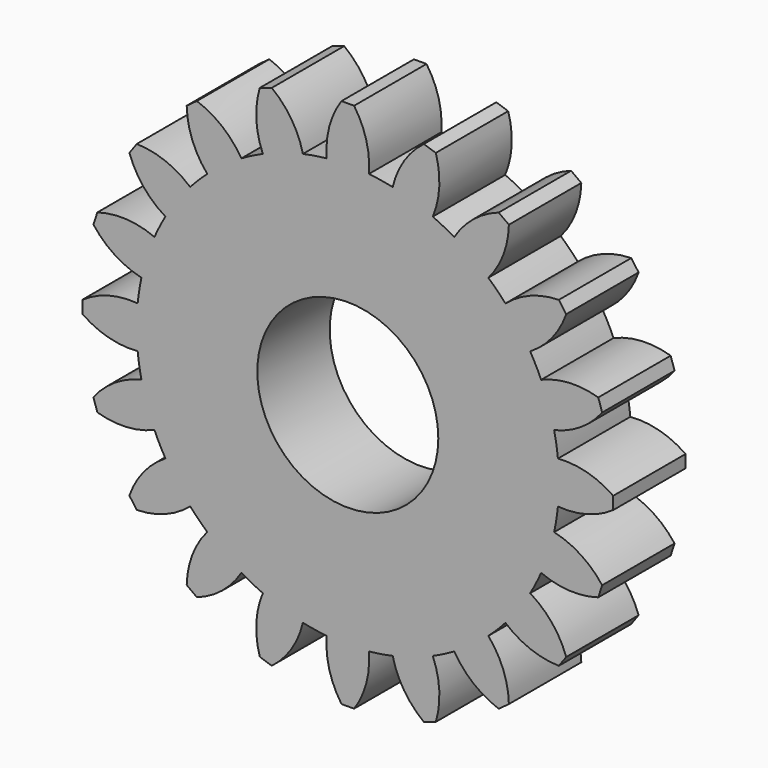
from build123d import *

# Parameters (mm, degrees)
F0_R     = 7.5
F1_DEPTH = 7.5


with BuildPart() as f1:
    # F0 (on Front) → F1 (new body)
    with BuildSketch(Plane.XZ):
        with BuildLine():
            ThreePointArc((-1.7455, 17.412732), (0, 17.5), (1.7455, 17.412732))
            ThreePointArc((1.7455, 17.412732), (1.533451, 19.81002), (0.522, 21.993806))
            Line((0.522, 21.993806), (-0.522, 21.993806))
            ThreePointArc((-0.522, 21.993806), (-1.533451, 19.81002), (-1.7455, 17.412732))
        make_face()
        with BuildLine():
            ThreePointArc((17.412732, -1.7455), (17.478169, -0.87384), (17.5, 0))
            ThreePointArc((17.5, 0), (17.478169, 0.87384), (17.412732, 1.7455))
            ThreePointArc((17.412732, 1.7455), (17.284546, 2.737603), (17.099881, 3.720761))
            ThreePointArc((17.099881, 3.720761), (16.643489, 5.407797), (16.021103, 7.040899))
            ThreePointArc((16.021103, 7.040899), (15.592614, 7.944834), (15.113175, 8.822808))
            ThreePointArc((15.113175, 8.822808), (14.157797, 10.286242), (13.061217, 11.647086))
            ThreePointArc((13.061217, 11.647086), (12.374369, 12.374369), (11.647086, 13.061217))
            ThreePointArc((11.647086, 13.061217), (10.286242, 14.157797), (8.822808, 15.113175))
            ThreePointArc((8.822808, 15.113175), (7.944834, 15.592614), (7.040899, 16.021103))
            ThreePointArc((7.040899, 16.021103), (5.407797, 16.643489), (3.720761, 17.099881))
            ThreePointArc((3.720761, 17.099881), (2.737603, 17.284546), (1.7455, 17.412732))
            ThreePointArc((1.7455, 17.412732), (0, 17.5), (-1.7455, 17.412732))
            ThreePointArc((-1.7455, 17.412732), (-2.737603, 17.284546), (-3.720761, 17.099881))
            ThreePointArc((-3.720761, 17.099881), (-5.407797, 16.643489), (-7.040899, 16.021103))
            ThreePointArc((-7.040899, 16.021103), (-7.944834, 15.592614), (-8.822808, 15.113175))
            ThreePointArc((-8.822808, 15.113175), (-10.286242, 14.157797), (-11.647086, 13.061217))
            ThreePointArc((-11.647086, 13.061217), (-12.374369, 12.374369), (-13.061217, 11.647086))
            ThreePointArc((-13.061217, 11.647086), (-14.157797, 10.286242), (-15.113175, 8.822808))
            ThreePointArc((-15.113175, 8.822808), (-15.592614, 7.944834), (-16.021103, 7.040899))
            ThreePointArc((-16.021103, 7.040899), (-16.643489, 5.407797), (-17.099881, 3.720761))
            ThreePointArc((-17.099881, 3.720761), (-17.284546, 2.737603), (-17.412732, 1.7455))
            ThreePointArc((-17.412732, 1.7455), (-17.5, 0), (-17.412732, -1.7455))
            ThreePointArc((-17.412732, -1.7455), (-17.284546, -2.737603), (-17.099881, -3.720761))
            ThreePointArc((-17.099881, -3.720761), (-16.643489, -5.407797), (-16.021103, -7.040899))
            ThreePointArc((-16.021103, -7.040899), (-15.592614, -7.944834), (-15.113175, -8.822808))
            ThreePointArc((-15.113175, -8.822808), (-14.157797, -10.286242), (-13.061217, -11.647086))
            ThreePointArc((-13.061217, -11.647086), (-12.374369, -12.374369), (-11.647086, -13.061217))
            ThreePointArc((-11.647086, -13.061217), (-10.286242, -14.157797), (-8.822808, -15.113175))
            ThreePointArc((-8.822808, -15.113175), (-7.944834, -15.592614), (-7.040899, -16.021103))
            ThreePointArc((-7.040899, -16.021103), (-5.407797, -16.643489), (-3.720761, -17.099881))
            ThreePointArc((-3.720761, -17.099881), (-2.737603, -17.284546), (-1.7455, -17.412732))
            ThreePointArc((-1.7455, -17.412732), (0, -17.5), (1.7455, -17.412732))
            ThreePointArc((1.7455, -17.412732), (2.737603, -17.284546), (3.720761, -17.099881))
            ThreePointArc((3.720761, -17.099881), (5.407797, -16.643489), (7.040899, -16.021103))
            ThreePointArc((7.040899, -16.021103), (7.944834, -15.592614), (8.822808, -15.113175))
            ThreePointArc((8.822808, -15.113175), (10.286242, -14.157797), (11.647086, -13.061217))
            ThreePointArc((11.647086, -13.061217), (12.374369, -12.374369), (13.061217, -11.647086))
            ThreePointArc((13.061217, -11.647086), (14.157797, -10.286242), (15.113175, -8.822808))
            ThreePointArc((15.113175, -8.822808), (15.592614, -7.944834), (16.021103, -7.040899))
            ThreePointArc((16.021103, -7.040899), (16.643489, -5.407797), (17.099881, -3.720761))
            ThreePointArc((17.099881, -3.720761), (17.284546, -2.737603), (17.412732, -1.7455))
        make_face()
        Circle(F0_R, mode=Mode.SUBTRACT)
        with BuildLine():
            ThreePointArc((-7.040899, 16.021103), (-5.407797, 16.643489), (-3.720761, 17.099881))
            ThreePointArc((-3.720761, 17.099881), (-4.663234, 19.314311), (-6.300008, 21.07866))
            Line((-6.300008, 21.07866), (-7.292911, 20.756046))
            ThreePointArc((-7.292911, 20.756046), (-7.580032, 18.366586), (-7.040899, 16.021103))
        make_face()
        with BuildLine():
            ThreePointArc((-11.647086, 13.061217), (-10.286242, 14.157797), (-8.822808, 15.113175))
            ThreePointArc((-8.822808, 15.113175), (-10.40345, 16.927983), (-12.505328, 18.100187))
            Line((-12.505328, 18.100187), (-13.349942, 17.486539))
            ThreePointArc((-13.349942, 17.486539), (-12.884626, 15.125303), (-11.647086, 13.061217))
        make_face()
        with BuildLine():
            ThreePointArc((-15.113175, 8.822808), (-14.157797, 10.286242), (-13.061217, 11.647086))
            ThreePointArc((-13.061217, 11.647086), (-15.125303, 12.884626), (-17.486539, 13.349942))
            Line((-17.486539, 13.349942), (-18.100187, 12.505328))
            ThreePointArc((-18.100187, 12.505328), (-16.927983, 10.40345), (-15.113175, 8.822808))
        make_face()
        with BuildLine():
            ThreePointArc((-17.099881, 3.720761), (-16.643489, 5.407797), (-16.021103, 7.040899))
            ThreePointArc((-16.021103, 7.040899), (-18.366586, 7.580032), (-20.756046, 7.292911))
            Line((-20.756046, 7.292911), (-21.07866, 6.300008))
            ThreePointArc((-21.07866, 6.300008), (-19.314311, 4.663234), (-17.099881, 3.720761))
        make_face()
        with BuildLine():
            ThreePointArc((-17.412732, -1.7455), (-17.5, 0), (-17.412732, 1.7455))
            ThreePointArc((-17.412732, 1.7455), (-19.81002, 1.533451), (-21.993806, 0.522))
            Line((-21.993806, 0.522), (-21.993806, -0.522))
            ThreePointArc((-21.993806, -0.522), (-19.81002, -1.533451), (-17.412732, -1.7455))
        make_face()
        with BuildLine():
            ThreePointArc((-20.756046, -7.292911), (-18.366586, -7.580032), (-16.021103, -7.040899))
            ThreePointArc((-16.021103, -7.040899), (-16.643489, -5.407797), (-17.099881, -3.720761))
            ThreePointArc((-17.099881, -3.720761), (-19.314311, -4.663234), (-21.07866, -6.300008))
            Line((-21.07866, -6.300008), (-20.756046, -7.292911))
        make_face()
        with BuildLine():
            ThreePointArc((-17.486539, -13.349942), (-15.125303, -12.884626), (-13.061217, -11.647086))
            ThreePointArc((-13.061217, -11.647086), (-14.157797, -10.286242), (-15.113175, -8.822808))
            ThreePointArc((-15.113175, -8.822808), (-16.927983, -10.40345), (-18.100187, -12.505328))
            Line((-18.100187, -12.505328), (-17.486539, -13.349942))
        make_face()
        with BuildLine():
            ThreePointArc((-12.505328, -18.100187), (-10.40345, -16.927983), (-8.822808, -15.113175))
            ThreePointArc((-8.822808, -15.113175), (-10.286242, -14.157797), (-11.647086, -13.061217))
            ThreePointArc((-11.647086, -13.061217), (-12.884626, -15.125303), (-13.349942, -17.486539))
            Line((-13.349942, -17.486539), (-12.505328, -18.100187))
        make_face()
        with BuildLine():
            ThreePointArc((-6.300008, -21.07866), (-4.663234, -19.314311), (-3.720761, -17.099881))
            ThreePointArc((-3.720761, -17.099881), (-5.407797, -16.643489), (-7.040899, -16.021103))
            ThreePointArc((-7.040899, -16.021103), (-7.580032, -18.366586), (-7.292911, -20.756046))
            Line((-7.292911, -20.756046), (-6.300008, -21.07866))
        make_face()
        with BuildLine():
            ThreePointArc((0.522, -21.993806), (1.533451, -19.81002), (1.7455, -17.412732))
            ThreePointArc((1.7455, -17.412732), (0, -17.5), (-1.7455, -17.412732))
            ThreePointArc((-1.7455, -17.412732), (-1.533451, -19.81002), (-0.522, -21.993806))
            Line((-0.522, -21.993806), (0.522, -21.993806))
        make_face()
        with BuildLine():
            ThreePointArc((7.292911, -20.756046), (7.580032, -18.366586), (7.040899, -16.021103))
            ThreePointArc((7.040899, -16.021103), (5.407797, -16.643489), (3.720761, -17.099881))
            ThreePointArc((3.720761, -17.099881), (4.663234, -19.314311), (6.300008, -21.07866))
            Line((6.300008, -21.07866), (7.292911, -20.756046))
        make_face()
        with BuildLine():
            ThreePointArc((13.349942, -17.486539), (12.884626, -15.125303), (11.647086, -13.061217))
            ThreePointArc((11.647086, -13.061217), (10.286242, -14.157797), (8.822808, -15.113175))
            ThreePointArc((8.822808, -15.113175), (10.40345, -16.927983), (12.505328, -18.100187))
            Line((12.505328, -18.100187), (13.349942, -17.486539))
        make_face()
        with BuildLine():
            ThreePointArc((21.07866, -6.300008), (19.314311, -4.663234), (17.099881, -3.720761))
            ThreePointArc((17.099881, -3.720761), (16.643489, -5.407797), (16.021103, -7.040899))
            ThreePointArc((16.021103, -7.040899), (18.366586, -7.580032), (20.756046, -7.292911))
            Line((20.756046, -7.292911), (21.07866, -6.300008))
        make_face()
        with BuildLine():
            ThreePointArc((17.412732, 1.7455), (17.478169, 0.87384), (17.5, 0))
            ThreePointArc((17.5, 0), (17.478169, -0.87384), (17.412732, -1.7455))
            ThreePointArc((17.412732, -1.7455), (19.81002, -1.533451), (21.993806, -0.522))
            Line((21.993806, -0.522), (21.993806, 0.522))
            ThreePointArc((21.993806, 0.522), (19.81002, 1.533451), (17.412732, 1.7455))
        make_face()
        with BuildLine():
            ThreePointArc((18.100187, -12.505328), (16.927983, -10.40345), (15.113175, -8.822808))
            ThreePointArc((15.113175, -8.822808), (14.157797, -10.286242), (13.061217, -11.647086))
            ThreePointArc((13.061217, -11.647086), (15.125303, -12.884626), (17.486539, -13.349942))
            Line((17.486539, -13.349942), (18.100187, -12.505328))
        make_face()
        with BuildLine():
            ThreePointArc((16.021103, 7.040899), (16.643489, 5.407797), (17.099881, 3.720761))
            ThreePointArc((17.099881, 3.720761), (19.314311, 4.663234), (21.07866, 6.300008))
            Line((21.07866, 6.300008), (20.756046, 7.292911))
            ThreePointArc((20.756046, 7.292911), (18.366586, 7.580032), (16.021103, 7.040899))
        make_face()
        with BuildLine():
            ThreePointArc((13.061217, 11.647086), (14.157797, 10.286242), (15.113175, 8.822808))
            ThreePointArc((15.113175, 8.822808), (16.927983, 10.40345), (18.100187, 12.505328))
            Line((18.100187, 12.505328), (17.486539, 13.349942))
            ThreePointArc((17.486539, 13.349942), (15.125303, 12.884626), (13.061217, 11.647086))
        make_face()
        with BuildLine():
            ThreePointArc((8.822808, 15.113175), (10.286242, 14.157797), (11.647086, 13.061217))
            ThreePointArc((11.647086, 13.061217), (12.884626, 15.125303), (13.349942, 17.486539))
            Line((13.349942, 17.486539), (12.505328, 18.100187))
            ThreePointArc((12.505328, 18.100187), (10.40345, 16.927983), (8.822808, 15.113175))
        make_face()
        with BuildLine():
            ThreePointArc((3.720761, 17.099881), (5.407797, 16.643489), (7.040899, 16.021103))
            ThreePointArc((7.040899, 16.021103), (7.580032, 18.366586), (7.292911, 20.756046))
            Line((7.292911, 20.756046), (6.300008, 21.07866))
            ThreePointArc((6.300008, 21.07866), (4.663234, 19.314311), (3.720761, 17.099881))
        make_face()
    extrude(amount=F1_DEPTH)


solid = f1.part
